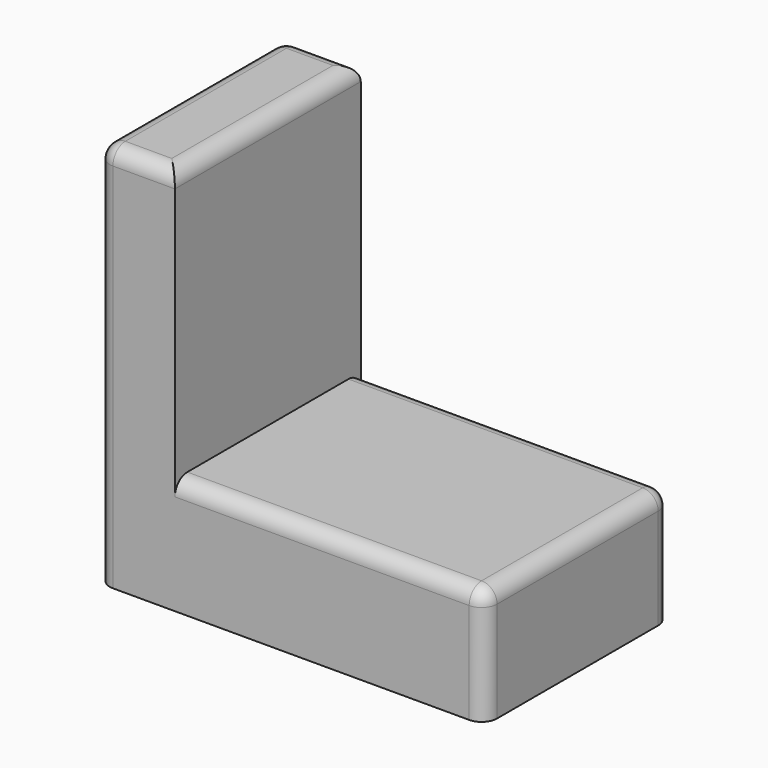
from build123d import *

# Parameters (mm, degrees)
F0_W     = 40
F0_H     = 30
F1_DEPTH = 15
F0_W_2   = 10
F2_DEPTH = 50
F3_W     = 10
F3_H     = 10
F4_DEPTH = 10
F5_R     = 2


with BuildPart() as f1:
    # F0 (on Top) → F1 (new body)
    with BuildSketch(Plane.XY):
        with Locations((5.999135, 2.211004)):
            Rectangle(F0_W, F0_H)
    extrude(amount=F1_DEPTH)

    # F0 (on Top) → F2 (join)
    with BuildSketch(Plane.XY):
        with Locations((-19.000865, 2.211004)):
            Rectangle(F0_W_2, F0_H)
    extrude(amount=F2_DEPTH)

    # F3 (on face) → F4 (cut)
    with BuildSketch(Plane.XY):
        with Locations((0.999135, 3.211004)):
            Rectangle(F3_W, F3_H)
    extrude(amount=F4_DEPTH, mode=Mode.SUBTRACT)

    # F5
    f5_edges = [f1.edges().sort_by_distance(p)[0] for p in [
        (-19.000865, -12.788996, 50),
        (-14.000865, 2.211004, 50),
        (-24.000865, 2.211004, 50),
        (-19.000865, 17.211004, 50),
        (5.999135, -12.788996, 15),
        (25.999135, 2.211004, 15),
        (5.999135, 17.211004, 15),
        (25.999135, 17.211004, 7.5),
        (25.999135, -12.788996, 7.5),
        (-24.000865, 17.211004, 25),
        (-24.000865, -12.788996, 25),
    ]]
    fillet(f5_edges, radius=F5_R)


solid = f1.part
